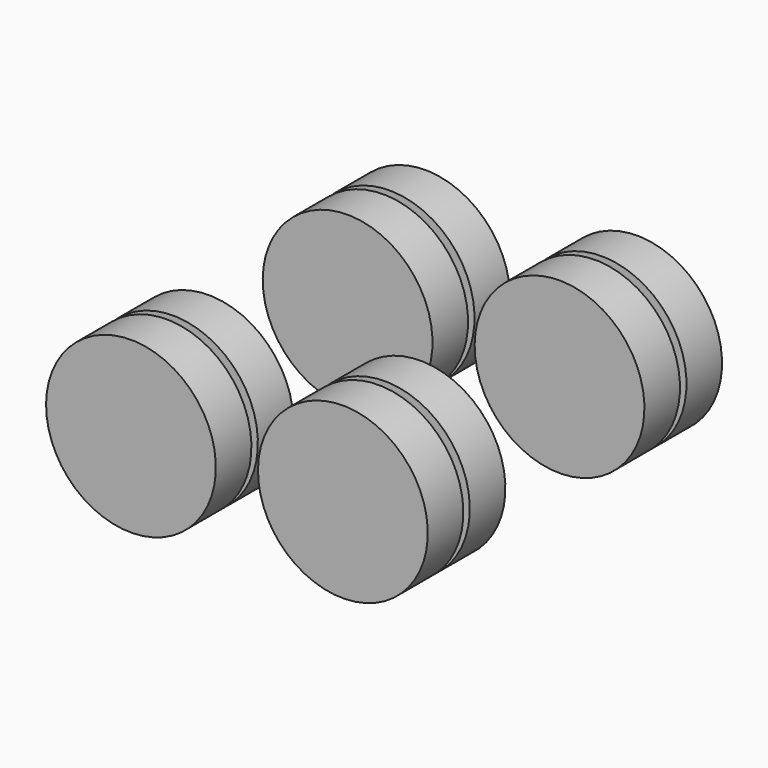
from build123d import *

# Parameters (mm, degrees)
CYLINDER027_R             = 42
CYLINDER027_DEPTH         = 22
CYLINDER026_R             = 42
CYLINDER026_DEPTH         = 22
CYLINDER028_R             = 42
CYLINDER028_DEPTH         = 22
CYLINDER029_R             = 42
CYLINDER029_DEPTH         = 22
FUSION129_PLACEMENT_ANGLE = 3
FUSION025_PLACEMENT_ANGLE = 3


with BuildPart() as cylinder027:
    # Cylinder027 → Cylinder027 (new body)
    with BuildSketch(Plane.XZ.offset(26)):
        Circle(CYLINDER027_R)
    extrude(amount=CYLINDER027_DEPTH)


with BuildPart() as cylinder026:
    # Cylinder026 → Cylinder026 (new body)
    with BuildSketch(Plane.XZ):
        Circle(CYLINDER026_R)
    extrude(amount=CYLINDER026_DEPTH)


with BuildPart() as fusion128:
    # Fusion128 base: copy of Cylinder026
    add(cylinder026.part)

    # Fusion128: union Cylinder027
    add(cylinder027.part)


with BuildPart() as cylinder028:
    # Cylinder028 → Cylinder028 (new body)
    with BuildSketch(Plane.XZ.offset(26)):
        Circle(CYLINDER028_R)
    extrude(amount=CYLINDER028_DEPTH)


with BuildPart() as cylinder029:
    # Cylinder029 → Cylinder029 (new body)
    with BuildSketch(Plane.XZ):
        Circle(CYLINDER029_R)
    extrude(amount=CYLINDER029_DEPTH)


with BuildPart() as wheels001:
    # Fusion130 base: copy of Cylinder029
    add(cylinder029.part)

    # Fusion130: union Cylinder028
    add(cylinder028.part)


with BuildPart() as wheels001_1:
    # Fusion130 placement: moved
    add(wheels001.part.moved(Location((105, 0, 0))))

    # Fusion129: union Fusion128
    add(fusion128.part)


with BuildPart() as wheels001_2:
    # Fusion129 placement: moved
    add(wheels001_1.part.moved(Location((450, 122, -47))).rotate(Axis((450, 122, -47), (0, -1, 0)), FUSION129_PLACEMENT_ANGLE))


with BuildPart() as fusion023:
    # Fusion023 base: copy of Cylinder026
    add(cylinder026.part)

    # Fusion023: union Cylinder027
    add(cylinder027.part)


with BuildPart() as wheels:
    # Fusion024 base: copy of Cylinder029
    add(cylinder029.part)

    # Fusion024: union Cylinder028
    add(cylinder028.part)


with BuildPart() as wheels_1:
    # Fusion024 placement: moved
    add(wheels.part.moved(Location((105, 0, 0))))

    # Fusion025: union Fusion023
    add(fusion023.part)


with BuildPart() as wheels_2:
    # Fusion025 placement: moved
    add(wheels_1.part.moved(Location((450, -12, -47))).rotate(Axis((450, -12, -47), (0, -1, 0)), FUSION025_PLACEMENT_ANGLE))

    # Fusion131: union wheels001
    add(wheels001_2.part)


solid = wheels_2.part
